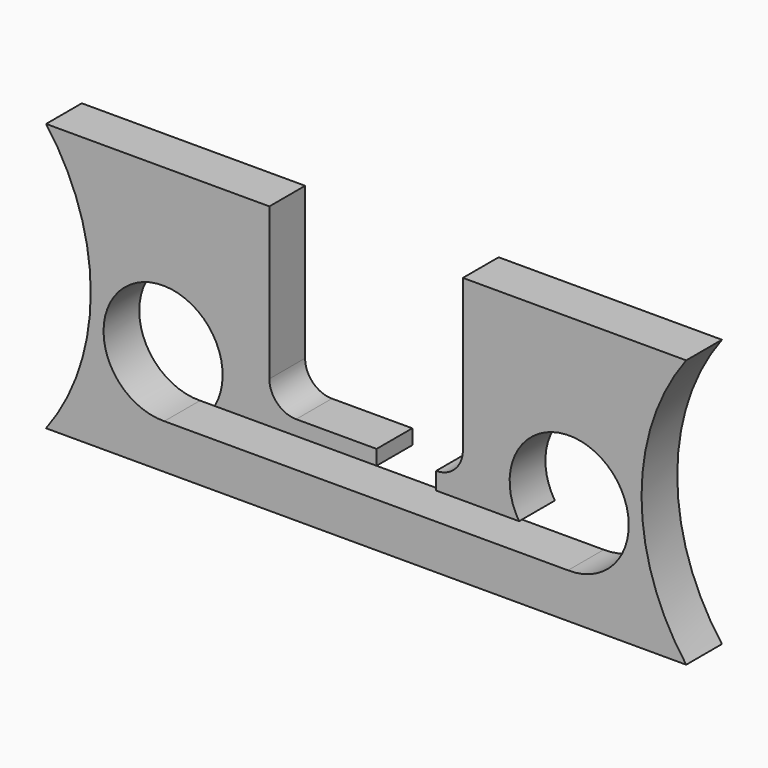
from build123d import *

# Parameters (mm, degrees)
F0_W     = 273.05
F0_H     = 114.3
F1_DEPTH = 19.05
F3_DEPTH = 25.4
F4_R     = 25.4
F5_DEPTH = 25.4
F7_DEPTH = 25.4


with BuildPart() as f1:
    # F0 (on Front) → F1 (new body)
    with BuildSketch(Plane.XZ):
        with Locations((136.525, 57.15)):
            Rectangle(F0_W, F0_H)
    extrude(amount=F1_DEPTH)

    # F2 (on face) → F3 (cut)
    with BuildSketch(Plane.XZ.offset(19.05)):
        with BuildLine():
            Line((0, 114.3), (0, 0))
            ThreePointArc((0, 0), (19.05, 57.15), (0, 114.3))
        make_face()
        with BuildLine():
            ThreePointArc((273.05, 114.3), (254, 57.15), (273.05, 0))
            Line((273.05, 0), (273.05, 114.3))
        make_face()
    extrude(amount=-F3_DEPTH, mode=Mode.SUBTRACT)

    # F4 (on face) → F5 (cut)
    with BuildSketch(Plane.XZ.offset(19.05)):
        with BuildLine():
            Line((177.8, 114.3), (95.25, 114.3))
            Line((95.25, 114.3), (95.25, 49.53))
            ThreePointArc((95.25, 49.53), (106.68, 60.96), (118.11, 49.53))
            ThreePointArc((118.11, 49.53), (114.762230509, 41.447769491), (106.68, 38.1))
            Line((106.68, 38.1), (166.37, 38.1))
            ThreePointArc((166.37, 38.1), (158.287769491, 57.612230509), (177.8, 49.53))
            Line((177.8, 49.53), (177.8, 114.3))
        make_face()
        with Locations((49.9111476386, 44.45)):
            Circle(F4_R)
        with Locations((223.1418776763, 44.45)):
            Circle(F4_R)
        with BuildLine():
            ThreePointArc((166.37, 38.1), (174.452230509, 41.447769491), (177.8, 49.53))
            ThreePointArc((177.8, 49.53), (158.287769491, 57.612230509), (166.37, 38.1))
        make_face()
        with BuildLine():
            ThreePointArc((118.11, 49.53), (106.68, 60.96), (95.25, 49.53))
            ThreePointArc((95.25, 49.53), (98.597769491, 41.447769491), (106.68, 38.1))
            ThreePointArc((106.68, 38.1), (114.762230509, 41.447769491), (118.11, 49.53))
        make_face()
    extrude(amount=-F5_DEPTH, mode=Mode.SUBTRACT)

    # F6 (on face) → F7 (cut)
    with BuildSketch(Plane.XZ.offset(19.05)):
        with BuildLine():
            Line((166.37, 30.7134911418), (166.37, 38.1))
            Line((166.37, 38.1), (140.97, 38.1))
            Line((140.97, 38.1), (140.97, 31.755262097))
            Line((140.97, 31.755262097), (71.9112301288, 31.755262097))
            ThreePointArc((71.9112301288, 31.755262097), (62.8369832957, 22.5848960084), (50.4281455484, 19.055262097))
            Line((50.4281455484, 19.055262097), (222.6248797665, 19.055262097))
            ThreePointArc((222.6248797665, 19.055262097), (210.7448885281, 22.2807722269), (201.7767583369, 30.7134911418))
            Line((201.7767583369, 30.7134911418), (166.37, 30.7134911418))
        make_face()
    extrude(amount=-F7_DEPTH, mode=Mode.SUBTRACT)


solid = f1.part
